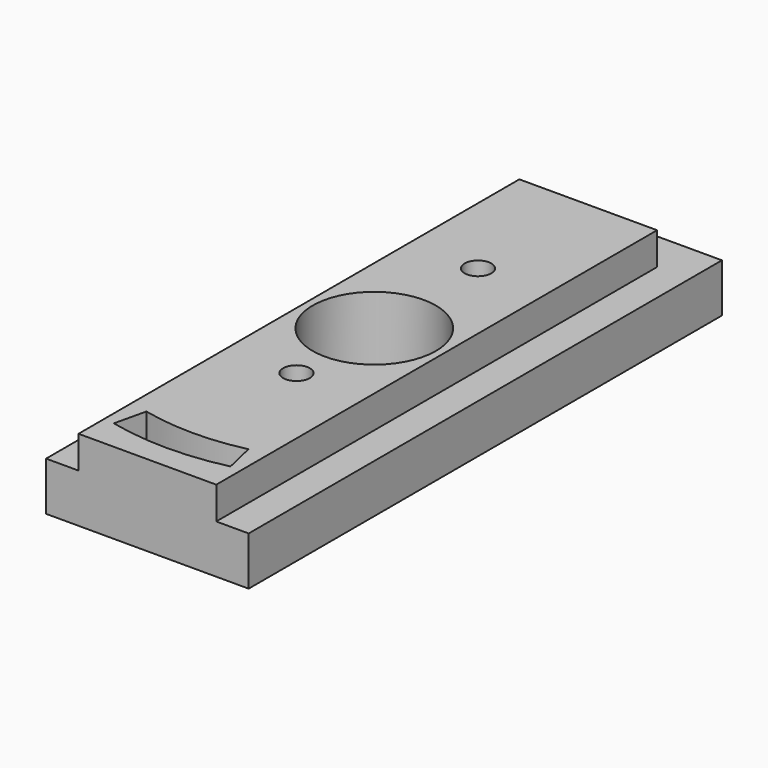
from build123d import *

# Parameters (mm, degrees)
BOX003_W                    = 25
BOX003_H                    = 5
BOX003_DEPTH                = 6
CYLINDER_R                  = 7.6
CYLINDER_DEPTH              = 10
CYLINDER004_R               = 1.65
CYLINDER004_DEPTH           = 9
CYLINDER005_R               = 1.65
CYLINDER005_DEPTH           = 9
BOX_W                       = 4
BOX_H                       = 68
BOX_DEPTH                   = 4
BOX002_W                    = 4
BOX002_H                    = 68
BOX002_DEPTH                = 4
CYLINDER003_W               = 28
CYLINDER003_H               = 10
CYLINDER003_ANGLE           = 26
CYLINDER003_PLACEMENT_ANGLE = 103
CYLINDER002_W               = 32
CYLINDER002_H               = 10
CYLINDER002_ANGLE           = 26
CYLINDER002_PLACEMENT_ANGLE = 103
BOX001_W                    = 25
BOX001_H                    = 68
BOX001_DEPTH                = 10


with BuildPart() as obj1:
    # Box003 → Box003 (new body)
    with BuildSketch(Plane(origin=(-12.5, 33, 0), x_dir=(1, 0, 0), z_dir=(0, 0, 1))):
        with Locations((12.5, 2.5)):
            Rectangle(BOX003_W, BOX003_H)
    extrude(amount=BOX003_DEPTH)


with BuildPart() as zylinder:
    # Cylinder → Cylinder (new body)
    with BuildSketch(Plane.XY):
        Circle(CYLINDER_R)
    extrude(amount=CYLINDER_DEPTH)


with BuildPart() as zylinder003:
    # Cylinder004 → Cylinder004 (new body)
    with BuildSketch(Plane(origin=(0, -12, 1), x_dir=(1, 0, 0), z_dir=(0, 0, 1))):
        Circle(CYLINDER004_R)
    extrude(amount=CYLINDER004_DEPTH)


with BuildPart() as zylinder004:
    # Cylinder005 → Cylinder005 (new body)
    with BuildSketch(Plane(origin=(0, 16, 1), x_dir=(1, 0, 0), z_dir=(0, 0, 1))):
        Circle(CYLINDER005_R)
    extrude(amount=CYLINDER005_DEPTH)


with BuildPart() as obj2:
    # Box → Box (new body)
    with BuildSketch(Plane(origin=(8.5, -35, 6), x_dir=(1, 0, 0), z_dir=(0, 0, 1))):
        with Locations((2, 34)):
            Rectangle(BOX_W, BOX_H)
    extrude(amount=BOX_DEPTH)


with BuildPart() as obj3:
    # Box002 → Box002 (new body)
    with BuildSketch(Plane(origin=(-12.5, -35, 6), x_dir=(1, 0, 0), z_dir=(0, 0, 1))):
        with Locations((2, 34)):
            Rectangle(BOX002_W, BOX002_H)
    extrude(amount=BOX002_DEPTH)


with BuildPart() as zylinder002:
    # Cylinder003 → Cylinder003 (revolve)
    with BuildSketch(Plane.XZ):
        with Locations((14, 5)):
            Rectangle(CYLINDER003_W, CYLINDER003_H)
    revolve(axis=Axis((0, 0, 0), (0, 0, 1)), revolution_arc=CYLINDER003_ANGLE)


with BuildPart() as zylinder002_1:
    # Cylinder003 placement: moved
    add(zylinder002.part.rotate(Axis((0, 0, 0), (0, 0, -1)), CYLINDER003_PLACEMENT_ANGLE))


with BuildPart() as fusion:
    # Cylinder002 → Cylinder002 (revolve)
    with BuildSketch(Plane.XZ):
        with Locations((16, 5)):
            Rectangle(CYLINDER002_W, CYLINDER002_H)
    revolve(axis=Axis((0, 0, 0), (0, 0, 1)), revolution_arc=CYLINDER002_ANGLE)


with BuildPart() as fusion_1:
    # Cylinder002 placement: moved
    add(fusion.part.rotate(Axis((0, 0, 0), (0, 0, -1)), CYLINDER002_PLACEMENT_ANGLE))

    # Cut001: cut Zylinder002
    add(zylinder002_1.part, mode=Mode.SUBTRACT)

    # Fusion: union Zylinder, Zylinder003, Zylinder004, obj2, obj3
    add(zylinder.part)
    add(zylinder003.part)
    add(zylinder004.part)
    add(obj2.part)
    add(obj3.part)


with BuildPart() as fusion001:
    # Box001 → Box001 (new body)
    with BuildSketch(Plane(origin=(-12.5, -35, 0), x_dir=(1, 0, 0), z_dir=(0, 0, 1))):
        with Locations((12.5, 34)):
            Rectangle(BOX001_W, BOX001_H)
    extrude(amount=BOX001_DEPTH)

    # Cut: cut Fusion
    add(fusion_1.part, mode=Mode.SUBTRACT)

    # Fusion001: union obj1
    add(obj1.part)


solid = fusion001.part
